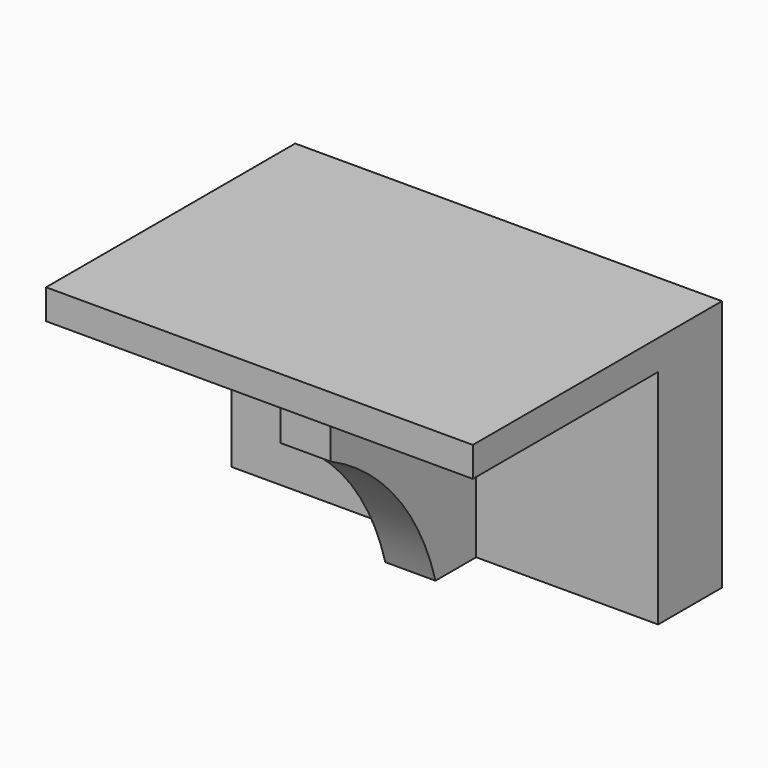
from build123d import *

# Parameters (mm, degrees)
F0_W     = 135.9543129802
F0_H     = 70.837918669
F1_DEPTH = 25.4
F2_W     = 135.9543129802
F2_H     = 73.7939976811
F2_H_2   = 25.4
F3_DEPTH = 9.525
F4_W     = 15.9723907709
F4_H     = 70.837918669
F5_DEPTH = 57.912
F7_DEPTH = 25.4


with BuildPart() as f1:
    # F0 (on Front) → F1 (new body)
    with BuildSketch(Plane.XZ):
        with Locations((16.0006545484, -2.0842719823)):
            Rectangle(F0_W, F0_H)
    extrude(amount=F1_DEPTH)

    # F2 (on face) → F3 (join)
    with BuildSketch(Plane.XY.offset(33.3346873522)):
        with Locations((16.0006545484, -62.2969988406)):
            Rectangle(F2_W, F2_H)
        with Locations((16.0006545484, -12.7)):
            Rectangle(F2_W, F2_H_2)
    extrude(amount=F3_DEPTH)

    # F4 (on face) → F5 (join)
    with BuildSketch(Plane.XZ.offset(25.4)):
        with Locations((18.005028367, -2.0842719823)):
            Rectangle(F4_W, F4_H)
    extrude(amount=F5_DEPTH)

    # F6 (on face) → F7 (cut)
    with BuildSketch(Plane.YZ.offset(25.9912237525)):
        with BuildLine():
            Line((-83.312, -37.5032313168), (-41.5840882454, -37.5032313168))
            ThreePointArc((-41.5840882454, -37.5032313168), (-57.0724279587, -7.8575184678), (-83.312, 12.8847527793))
            Line((-83.312, 12.8847527793), (-83.312, -37.5032313168))
        make_face()
    extrude(amount=-F7_DEPTH, mode=Mode.SUBTRACT)


solid = f1.part
